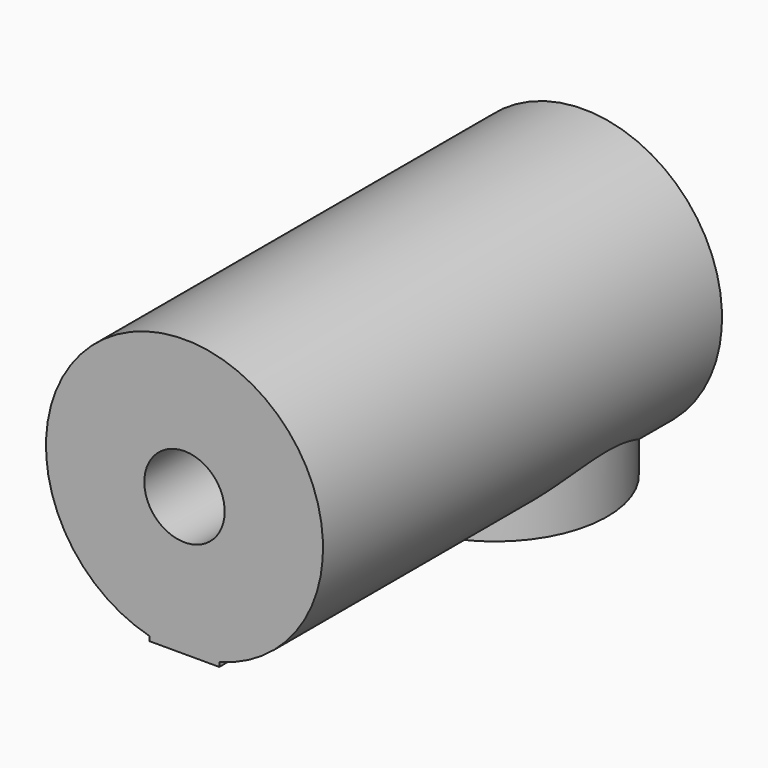
from build123d import *

# Parameters (mm, degrees)
PAD059_DEPTH            = 5
SKETCH256_R             = 1.525
POCKET023_DEPTH         = 5.001
SKETCH254_R             = 1.65
POCKET024_DEPTH         = 10.062801
SKETCH258_R             = 1.45
POCKET025_DEPTH         = 8
BODY018_PLACEMENT_ANGLE = 90


with BuildPart() as part:
    # Sketch255 → Revolution006 (revolve)
    with BuildSketch(Plane.XZ):
        Polygon((1.65, -18), (1.65, -8), (1.45, -8), (1.45, 0), (5, 0), (5, -18), align=None)
    revolve(axis=Axis((0, 0, 0), (0, 0, 1)))

    # Sketch257 → Pad059 (new body)
    with BuildSketch(Plane.XZ):
        with BuildLine():
            ThreePointArc((-1.255464, -10.137095), (0, -18.061801), (1.255464, -10.137095))
            Line((1.255464, -10.137095), (1.255464, 0))
            Line((1.255464, 0), (-1.255464, 0))
            Line((-1.255464, 0), (-1.255464, -10.137095))
        make_face()
    extrude(amount=PAD059_DEPTH)

    # Sketch256 → Pocket023 (cut, through all)
    with BuildSketch(Plane.XZ):
        with Locations((0, -14.232587)):
            Circle(SKETCH256_R)
    extrude(amount=POCKET023_DEPTH, mode=Mode.SUBTRACT)

    # Sketch254 → Pocket024 (cut, through all)
    with BuildSketch(Plane.XY.offset(-8)):
        Circle(SKETCH254_R)
    extrude(amount=-POCKET024_DEPTH, mode=Mode.SUBTRACT)

    # Sketch258 → Pocket025 (cut)
    with BuildSketch(Plane.XY):
        Circle(SKETCH258_R)
    extrude(amount=-POCKET025_DEPTH, mode=Mode.SUBTRACT)


with BuildPart() as part_1:
    # Body018 placement: moved
    add(part.part.moved(Location((-53, 3, 45))).rotate(Axis((-53, 3, 45), (1, 0, 0)), BODY018_PLACEMENT_ANGLE))


solid = part_1.part
